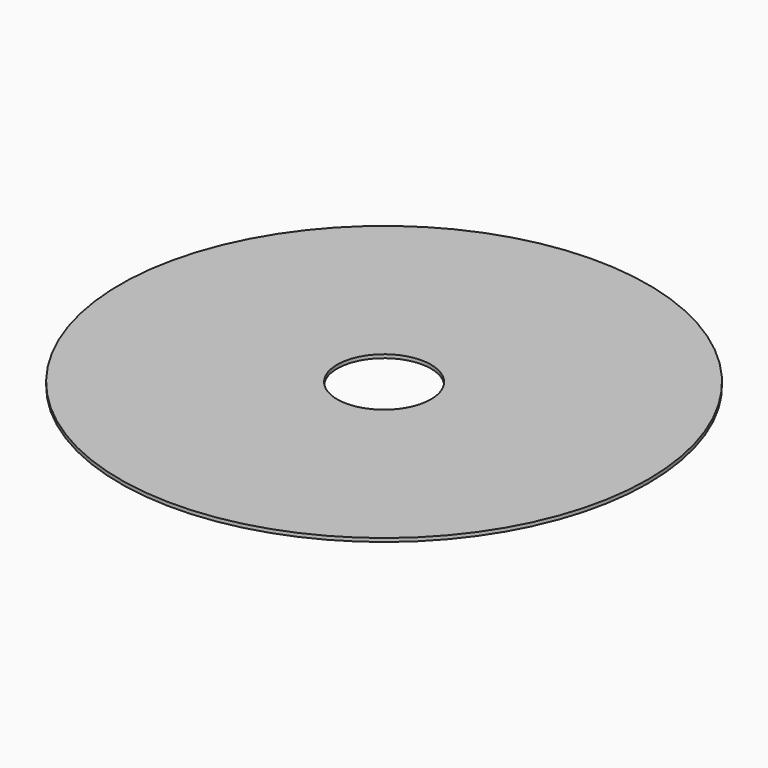
from build123d import *

# Parameters (mm, degrees)
SKETCH_R   = 22.5
SKETCH_R_2 = 4
PAD_DEPTH  = 0.3


with BuildPart() as part:
    # Sketch → Pad (new body)
    with BuildSketch(Plane.XY):
        Circle(SKETCH_R)
        Circle(SKETCH_R_2, mode=Mode.SUBTRACT)
    extrude(amount=PAD_DEPTH)


solid = part.part
